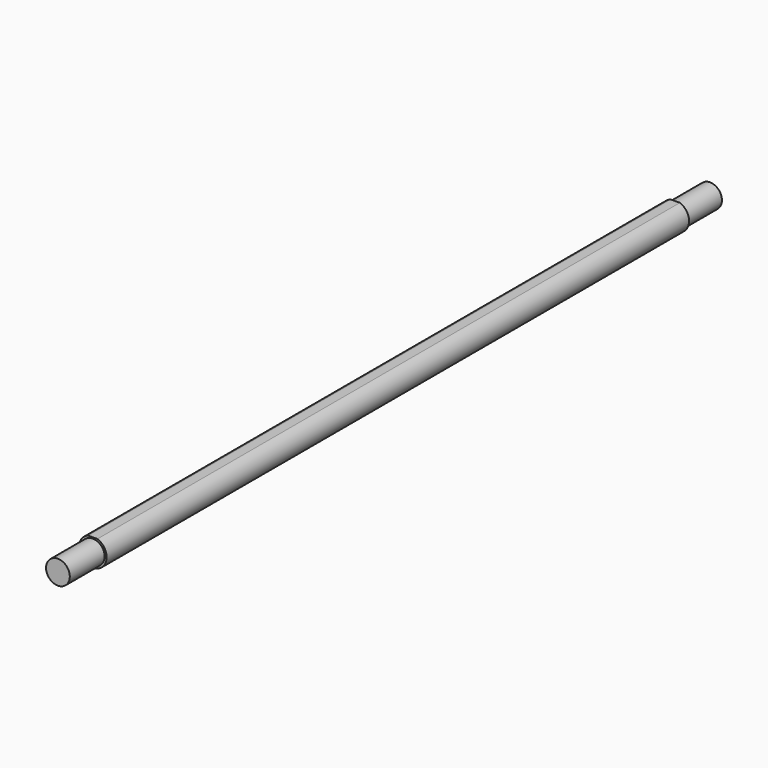
from build123d import *

# Parameters (mm, degrees)
F1_DEPTH = 1030
F2_R     = 17.5
F2_R_2   = 15
F3_DEPTH = 55
F4_R     = 17.5
F4_R_2   = 15
F5_DEPTH = 55


with BuildPart() as f1:
    # F0 (on Front) → F1 (new body)
    with BuildSketch(Plane.XZ):
        with BuildLine():
            Line((5.830952, 16.5), (-5.830952, 16.5))
            ThreePointArc((-5.830952, 16.5), (0, -17.5), (5.830952, 16.5))
        make_face()
    extrude(amount=F1_DEPTH)

    # F2 (on Front) → F3 (cut)
    with BuildSketch(Plane.XZ):
        Circle(F2_R)
        Circle(F2_R_2, mode=Mode.SUBTRACT)
    extrude(amount=F3_DEPTH, mode=Mode.SUBTRACT)

    # F4 (on face) → F5 (cut)
    with BuildSketch(Plane.XZ.offset(1030)):
        Circle(F4_R)
        Circle(F4_R_2, mode=Mode.SUBTRACT)
    extrude(amount=-F5_DEPTH, mode=Mode.SUBTRACT)


solid = f1.part
